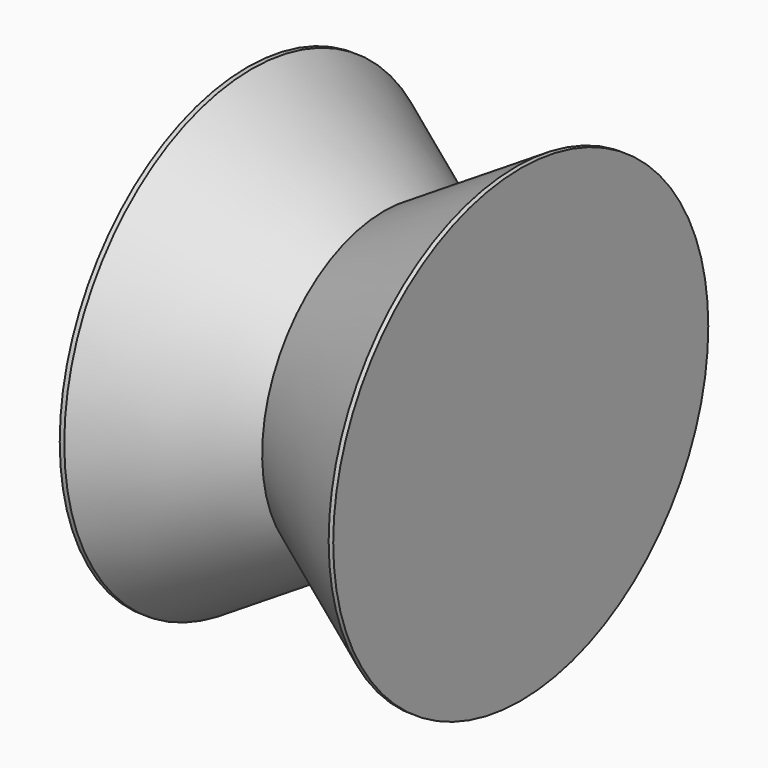
from build123d import *

# Parameters (mm, degrees)
F0_R          = 76.203456
F1_DEPTH      = 44.45
F1_DEPTH_BACK = 44.45


with BuildPart() as f1:
    # F0 (on Right) → F1 (new body, two sides)
    with BuildSketch(Plane.YZ) as f1_sk:
        Circle(F0_R)
    extrude(amount=F1_DEPTH)
    extrude(f1_sk.sketch, amount=-F1_DEPTH_BACK)

    # F2 (on Front) → F3 (revolve, cut)
    with BuildSketch(Plane.XZ):
        Polygon((43.189477, 76.338857), (0, 76.338857), (-43.189477, 76.338857), (0, 49.506571), align=None)
    revolve(axis=Axis((-7.097326, 0, 0), (-1, 0, 0)), mode=Mode.SUBTRACT)


solid = f1.part
